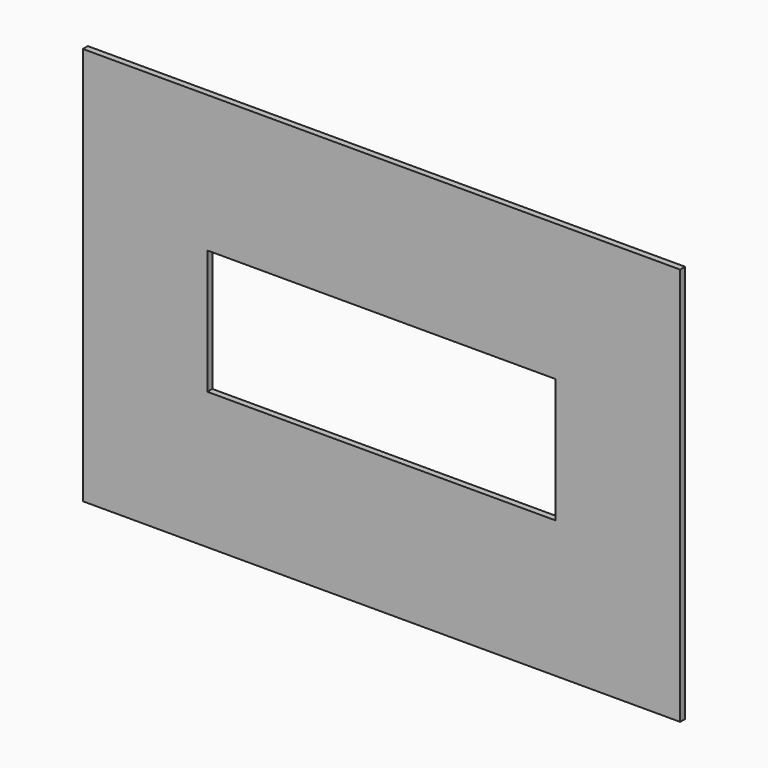
from build123d import *

# Parameters (mm, degrees)
F0_W     = 304.8
F0_H     = 203.2
F1_DEPTH = 3.175
F2_W     = 177.8
F2_H     = 63.5
F3_DEPTH = 12.7


with BuildPart() as f1:
    # F0 (on Front) → F1 (new body)
    with BuildSketch(Plane.XZ):
        Rectangle(F0_W, F0_H)
    extrude(amount=F1_DEPTH)

    # F2 (on face) → F3 (cut, symmetric)
    with BuildSketch(Plane(origin=(0, 0, 0), x_dir=(-1, 0, 0), z_dir=(0, 1, 0))):
        Rectangle(F2_W, F2_H)
    extrude(amount=F3_DEPTH, both=True, mode=Mode.SUBTRACT)


solid = f1.part
